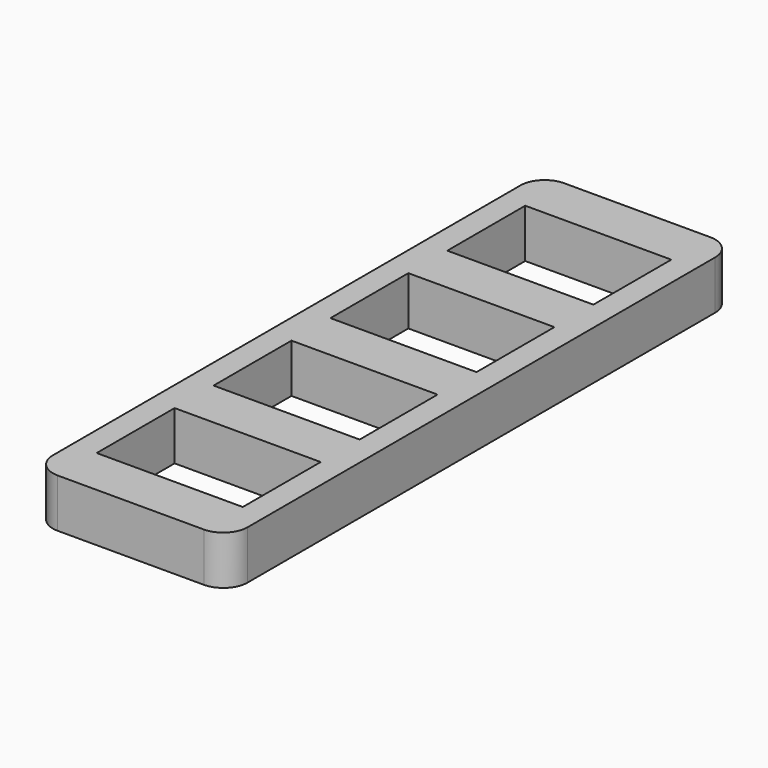
from build123d import *

# Parameters (mm, degrees)
F0_W     = 40
F0_H     = 130
F1_DEPTH = 10
F2_R     = 5
F3_W     = 30
F3_H     = 20
F4_DEPTH = 25


with BuildPart() as f1:
    # F0 (on Top) → F1 (new body)
    with BuildSketch(Plane.XY):
        Rectangle(F0_W, F0_H)
    extrude(amount=F1_DEPTH)

    # F2
    f2_edges = [f1.edges().sort_by_distance(p)[0] for p in [
        (-20, -65, 5),
        (20, -65, 5),
        (20, 65, 5),
        (-20, 65, 5),
    ]]
    fillet(f2_edges, radius=F2_R)

    # F3 (on Top) → F4 (cut)
    with BuildSketch(Plane.XY):
        with Locations((0, 15)):
            Rectangle(F3_W, F3_H)
        with Locations((0, 45)):
            Rectangle(F3_W, F3_H)
        with Locations((0, -15)):
            Rectangle(F3_W, F3_H)
        with Locations((0, -45)):
            Rectangle(F3_W, F3_H)
    extrude(amount=F4_DEPTH, mode=Mode.SUBTRACT)


solid = f1.part
